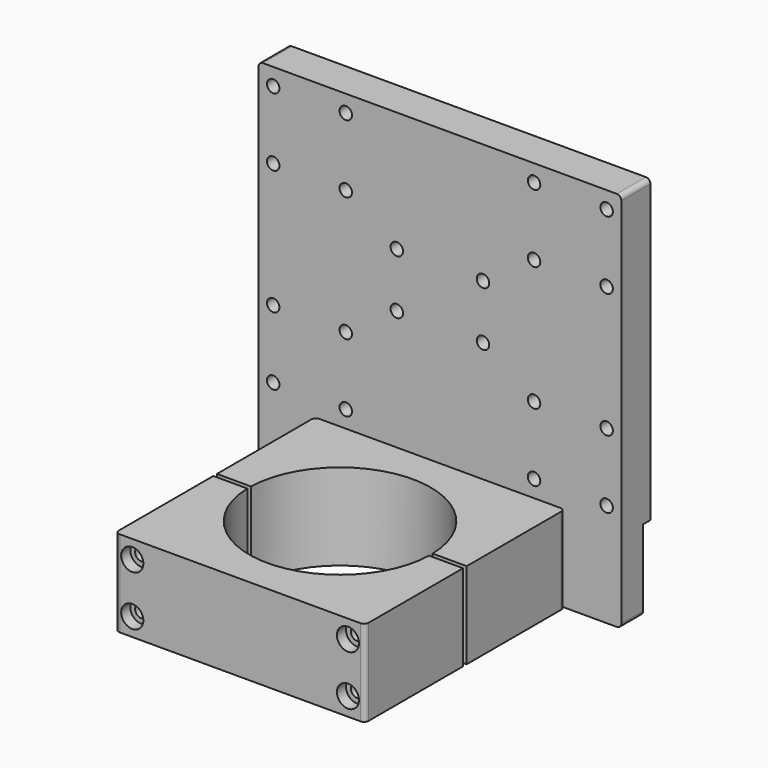
from build123d import *

# Parameters (mm, degrees)
F1_DEPTH       = 19.05
F2_R           = 2.75
F3_DEPTH       = 16
F5_D           = 5.5
F5_CBORE_D     = 9.75
F5_CBORE_DEPTH = 5
F7_D           = 4.2
F7_DEPTH       = 15
F7_TIP         = 1.2618073
F9_D           = 4.2
F9_DEPTH       = 20.4
F9_TIP         = 1.2618073
F10_W          = 160
F10_H          = 35.6
F11_DEPTH      = 4


with BuildPart() as f1:
    # F0 (on Top) → F1 (new body, symmetric)
    with BuildSketch(Plane.XY):
        with BuildLine():
            ThreePointArc((-40.0375136591, 1), (0, 40.05), (40.0375136591, 1))
            Line((40.0375136591, 1), (55.05, 1))
            Line((55.05, 1), (55.05, 53.05))
            ThreePointArc((55.05, 53.05), (54.4642135624, 54.4642135624), (53.05, 55.05))
            Line((53.05, 55.05), (-53.05, 55.05))
            ThreePointArc((-53.05, 55.05), (-54.4642135624, 54.4642135624), (-55.05, 53.05))
            Line((-55.05, 53.05), (-55.05, 1))
            Line((-55.05, 1), (-40.0375136591, 1))
        make_face()
    extrude(amount=F1_DEPTH, both=True)

    # F7
    with Locations(Plane(origin=(0, 55.05, 0), x_dir=(-1, 0, 0), z_dir=(0, 1, 0))):
        with Locations((-41.5, -11.05), (-41.5, 11.05), (41.5, 11.05), (41.5, -11.05)):
            Hole(F7_D / 2, depth=F7_DEPTH)
            with Locations((0, 0, -(F7_DEPTH + F7_TIP / 2))):  # 118° drill point
                Cone(0, F7_D / 2, F7_TIP, mode=Mode.SUBTRACT)

    # F9
    with Locations(Plane.XZ.offset(-1)):
        with Locations((-47.544, 11.05), (-47.544, -11.05), (47.544, -11.05), (47.544, 11.05)):
            Hole(F9_D / 2, depth=F9_DEPTH)
            with Locations((0, 0, -(F9_DEPTH + F9_TIP / 2))):  # 118° drill point
                Cone(0, F9_D / 2, F9_TIP, mode=Mode.SUBTRACT)


with BuildPart() as f1b:
    # F0 (on Top) → F1, piece 2 (new body, symmetric)
    with BuildSketch(Plane.XY):
        with BuildLine():
            Line((-53.05, -55.05), (53.05, -55.05))
            ThreePointArc((53.05, -55.05), (54.4642135624, -54.4642135624), (55.05, -53.05))
            Line((55.05, -53.05), (55.05, -1))
            Line((55.05, -1), (40.0375136591, -1))
            ThreePointArc((40.0375136591, -1), (0, -40.05), (-40.0375136591, -1))
            Line((-40.0375136591, -1), (-55.05, -1))
            Line((-55.05, -1), (-55.05, -53.05))
            ThreePointArc((-55.05, -53.05), (-54.4642135624, -54.4642135624), (-53.05, -55.05))
        make_face()
    extrude(amount=F1_DEPTH, both=True)

    # F5 (through all)
    with Locations(Plane.XZ.offset(55.05)):
        with Locations((-47.544, 11.05), (-47.544, -11.05), (47.544, 11.05), (47.544, -11.05)):
            CounterBoreHole(F5_D / 2, F5_CBORE_D / 2, F5_CBORE_DEPTH)


with BuildPart() as f3:
    # F2 (on face) → F3 (new body)
    with BuildSketch(Plane(origin=(0, 55.05, 0), x_dir=(-1, 0, 0), z_dir=(0, 1, 0))):
        with BuildLine():
            Line((78, 149.05), (-78, 149.05))
            ThreePointArc((-78, 149.05), (-79.4142135624, 148.4642135624), (-80, 147.05))
            Line((-80, 147.05), (-80, -17.05))
            ThreePointArc((-80, -17.05), (-79.4142135624, -18.4642135624), (-78, -19.05))
            Line((-78, -19.05), (78, -19.05))
            ThreePointArc((78, -19.05), (79.4142135624, -18.4642135624), (80, -17.05))
            Line((80, -17.05), (80, 147.05))
            ThreePointArc((80, 147.05), (79.4142135624, 148.4642135624), (78, 149.05))
        make_face()
        with Locations((-41.5, -11.05)):
            Circle(F2_R, mode=Mode.SUBTRACT)
        with Locations((-41.5, 11.05)):
            Circle(F2_R, mode=Mode.SUBTRACT)
        with Locations((-73.5, 26.55)):
            Circle(F2_R, mode=Mode.SUBTRACT)
        with Locations((-41.5, 26.55)):
            Circle(F2_R, mode=Mode.SUBTRACT)
        with Locations((-73.5, 56.55)):
            Circle(F2_R, mode=Mode.SUBTRACT)
        with Locations((-41.5, 56.55)):
            Circle(F2_R, mode=Mode.SUBTRACT)
        with Locations((41.5, -11.05)):
            Circle(F2_R, mode=Mode.SUBTRACT)
        with Locations((41.5, 11.05)):
            Circle(F2_R, mode=Mode.SUBTRACT)
        with Locations((41.5, 26.55)):
            Circle(F2_R, mode=Mode.SUBTRACT)
        with Locations((73.5, 26.55)):
            Circle(F2_R, mode=Mode.SUBTRACT)
        with Locations((41.5, 56.55)):
            Circle(F2_R, mode=Mode.SUBTRACT)
        with Locations((73.5, 56.55)):
            Circle(F2_R, mode=Mode.SUBTRACT)
        with Locations((-19, 72.05)):
            Circle(F2_R, mode=Mode.SUBTRACT)
        with Locations((-19, 96.05)):
            Circle(F2_R, mode=Mode.SUBTRACT)
        with Locations((-73.5, 111.55)):
            Circle(F2_R, mode=Mode.SUBTRACT)
        with Locations((-41.5, 111.55)):
            Circle(F2_R, mode=Mode.SUBTRACT)
        with Locations((-73.5, 141.55)):
            Circle(F2_R, mode=Mode.SUBTRACT)
        with Locations((-41.5, 141.55)):
            Circle(F2_R, mode=Mode.SUBTRACT)
        with Locations((19, 72.05)):
            Circle(F2_R, mode=Mode.SUBTRACT)
        with Locations((19, 96.05)):
            Circle(F2_R, mode=Mode.SUBTRACT)
        with Locations((41.5, 111.55)):
            Circle(F2_R, mode=Mode.SUBTRACT)
        with Locations((73.5, 111.55)):
            Circle(F2_R, mode=Mode.SUBTRACT)
        with Locations((41.5, 141.55)):
            Circle(F2_R, mode=Mode.SUBTRACT)
        with Locations((73.5, 141.55)):
            Circle(F2_R, mode=Mode.SUBTRACT)
    extrude(amount=F3_DEPTH)

    # F10 (on face) → F11 (cut)
    with BuildSketch(Plane(origin=(0, 71.05, 0), x_dir=(-1, 0, 0), z_dir=(0, 1, 0))):
        with Locations((0, -1.25)):
            Rectangle(F10_W, F10_H)
    extrude(amount=-F11_DEPTH, mode=Mode.SUBTRACT)


solid = Compound([f1.part, f1b.part, f3.part])
